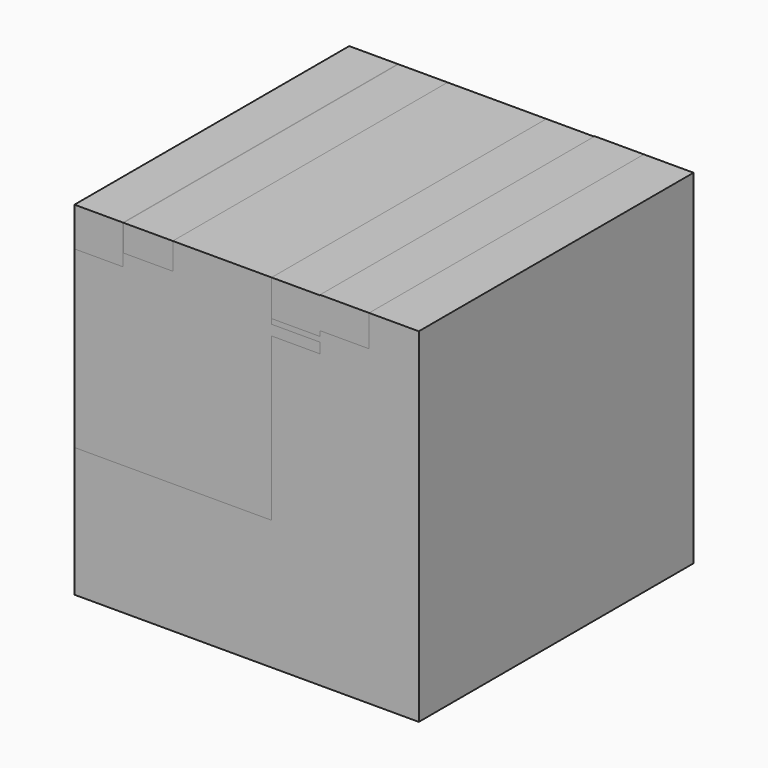
from build123d import *

# Parameters (mm, degrees)
F0_W     = 359.4011852388
F0_H     = 288.038813754
F1_DEPTH = 2540
F0_W_2   = 363.9765930109
F0_H_2   = 197.147512122
F2_DEPTH = 2540
F0_W_3   = 358.0076344128
F0_H_3   = 76.2
F3_DEPTH = 2540
F4_DEPTH = 2540


with BuildPart() as f1:
    # F0 (on Front) → F1 (new body)
    with BuildSketch(Plane.XZ):
        with Locations((-1097.621420485, 1124.2334662299)):
            Rectangle(F0_W, F0_H)
    extrude(amount=F1_DEPTH)


with BuildPart() as f1b:
    # F0 (on Front) → F1, piece 2 (new body)
    with BuildSketch(Plane.XZ):
        Polygon((901.9979868956, 1271.8726735222), (538.7779868956, 1271.8726735222), (538.7779868956, 1268.2528731068), (538.7779868956, 1038.2767915726), (901.9979868956, 1038.2767915726), align=None)
    extrude(amount=F1_DEPTH)

    # F0 (on Front) → F2, piece 2 (join)
    with BuildSketch(Plane.XZ):
        Polygon((538.7779868956, 1268.2528731068), (180.7703524828, 1268.2528731068), (180.7703524828, 1000.5323886871), (538.7779868956, 1000.5323886871), (538.7779868956, 1038.2767915726), align=None)
    extrude(amount=F2_DEPTH)


with BuildPart() as f2:
    # F0 (on Front) → F2 (new body)
    with BuildSketch(Plane.XZ):
        with Locations((-732.113716599, 1169.6791170458)):
            Rectangle(F0_W_2, F0_H_2)
    extrude(amount=F2_DEPTH)


with BuildPart() as f3:
    # F0 (on Front) → F3 (new body)
    with BuildSketch(Plane.XZ):
        Polygon((-917.9208278656, 980.2140593529), (-1277.3220131044, 980.2140593529), (-1277.3220131044, 963.4528731068), (-1277.3220131044, 887.2528731068), (-1277.3220131044, 195.8300620317), (-172.4220131044, 195.8300620317), (-172.4220131044, 1268.2528731068), (-550.1254200935, 1268.2528731068), (-550.1254200935, 1071.1053609848), (-914.1020131044, 1071.1053609848), (-914.1020131044, 1268.2528731068), (-917.9208278656, 1268.2528731068), align=None)
        Polygon((-172.4220131044, 195.8300620317), (-1277.3220131044, 195.8300620317), (-1277.3220131044, -312.9727840424), (180.7703524828, -312.9727840424), (180.7703524828, 887.2528731068), (180.7703524828, 963.4528731068), (180.7703524828, 1000.5323886871), (180.7703524828, 1268.2528731068), (-172.4220131044, 1268.2528731068), align=None)
        with Locations((359.7741696892, 925.3528731068)):
            Rectangle(F0_W_3, F0_H_3)
    extrude(amount=F3_DEPTH)


with BuildPart() as f4:
    # F0 (on Front) → F4 (new body)
    with BuildSketch(Plane.XZ):
        Polygon((1269.4430012173, 1271.8726735222), (901.9979868956, 1271.8726735222), (901.9979868956, 1038.2767915726), (901.9979868956, 1000.5323886871), (1269.4430012173, 1000.5323886871), align=None)
        Polygon((180.7703524828, -312.9727840424), (-1277.3220131044, -312.9727840424), (-1277.3220131044, -1271.7471268932), (1269.4430012173, -1271.7471268932), (1269.4430012173, 1000.5323886871), (901.9979868956, 1000.5323886871), (901.9979868956, 1038.2767915726), (538.7779868956, 1038.2767915726), (538.7779868956, 1000.5323886871), (180.7703524828, 1000.5323886871), (180.7703524828, 963.4528731068), (538.7779868956, 963.4528731068), (538.7779868956, 887.2528731068), (180.7703524828, 887.2528731068), align=None)
    extrude(amount=F4_DEPTH)


solid = Compound([f1.part, f1b.part, f2.part, f3.part, f4.part])
